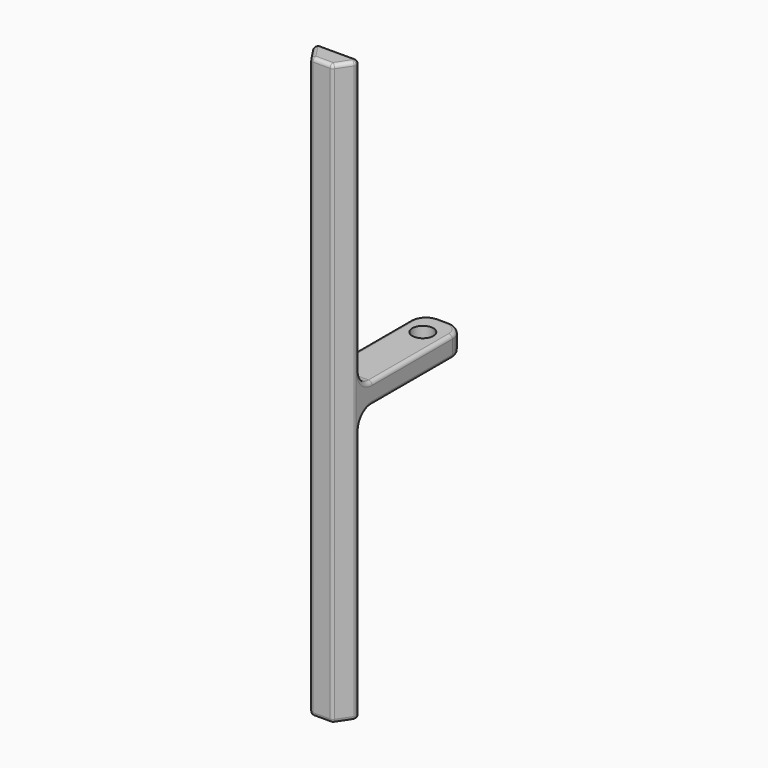
from build123d import *

# Parameters (mm, degrees)
F0_W       = 8
F0_H       = 4
F1_DEPTH   = 110
F2_W       = 8
F2_H       = 4
F3_DEPTH   = 25
F4_R       = 2
F5_DEPTH   = 55.001
F6_R       = 3
F7_SIZE2   = 2
F7_SIZE    = 3
F7_2_SIZE2 = 2
F7_2_SIZE  = 3
F8_R       = 3
F9_R       = 0.7


with BuildPart() as f1:
    # F0 (on Top) → F1 (new body)
    with BuildSketch(Plane.XY):
        with Locations((3.6675264128, -2.3501528167)):
            Rectangle(F0_W, F0_H)
    extrude(amount=F1_DEPTH)

    # F2 (on face) → F3 (join)
    with BuildSketch(Plane(origin=(0, -0.3501528167, 0), x_dir=(-1, 0, 0), z_dir=(0, 1, 0))):
        with Locations((-3.6675264128, 53)):
            Rectangle(F2_W, F2_H)
    extrude(amount=F3_DEPTH)

    # F4 (on face) → F5 (cut, through all)
    with BuildSketch(Plane.XY.offset(55)):
        with Locations((3.6675264128, 19.6498471833)):
            Circle(F4_R)
    extrude(amount=-F5_DEPTH, mode=Mode.SUBTRACT)

    # F6
    f6_edges = [f1.edges().sort_by_distance(p)[0] for p in [
        (3.667526, -0.350153, 55),
        (3.667526, -0.350153, 51),
    ]]
    fillet(f6_edges, radius=F6_R)

    # F7
    f7_edges = [f1.edges().sort_by_distance(p)[0] for p in [
        (7.667526, -4.350153, 55),
    ]]
    f7_side = f1.faces().sort_by_distance((7.667526, 0.334925, 54.618055))[0]
    chamfer(f7_edges, length=F7_SIZE, length2=F7_SIZE2, reference=f7_side)

    # F7#2
    f7_2_edges = [f1.edges().sort_by_distance(p)[0] for p in [
        (-0.332474, -4.350153, 55),
    ]]
    f7_2_side = f1.faces().sort_by_distance((-0.332474, 0.334925, 54.618055))[0]
    chamfer(f7_2_edges, length=F7_2_SIZE, length2=F7_2_SIZE2, reference=f7_2_side)

    # F8
    f8_edges = [f1.edges().sort_by_distance(p)[0] for p in [
        (7.667526, 24.649847, 53),
        (-0.332474, 24.649847, 53),
    ]]
    fillet(f8_edges, radius=F8_R)

    # F9
    f9_edges = [f1.edges().sort_by_distance(p)[0] for p in [
        (-0.332474, 12.149847, 51),
        (-0.332474, 21.649847, 53),
        (-0.332474, 0.528527, 50.12132),
        (-0.332474, 12.149847, 55),
        (-0.332474, -0.350153, 24),
        (-0.332474, 0.528527, 55.87868),
        (-0.332474, -0.850153, 0),
        (-0.332474, -0.350153, 84),
        (-0.332474, -1.350153, 55),
        (-0.332474, -0.850153, 110),
        (7.667526, 12.149847, 55),
        (7.667526, 21.649847, 53),
        (7.667526, 0.528527, 55.87868),
        (7.667526, 12.149847, 51),
        (7.667526, -0.350153, 84),
        (7.667526, 0.528527, 50.12132),
        (7.667526, -0.850153, 110),
        (7.667526, -0.350153, 24),
        (7.667526, -1.350153, 55),
        (7.667526, -0.850153, 0),
        (3.667526, -4.350153, 110),
        (0.667526, -2.850153, 110),
        (6.667526, -2.850153, 110),
        (3.667526, -0.350153, 110),
        (3.667526, -4.350153, 0),
        (0.667526, -2.850153, 0),
        (6.667526, -2.850153, 0),
        (3.667526, -0.350153, 0),
        (1.667526, -4.350153, 55),
        (5.667526, -4.350153, 55),
    ]]
    fillet(f9_edges, radius=F9_R)


solid = f1.part
